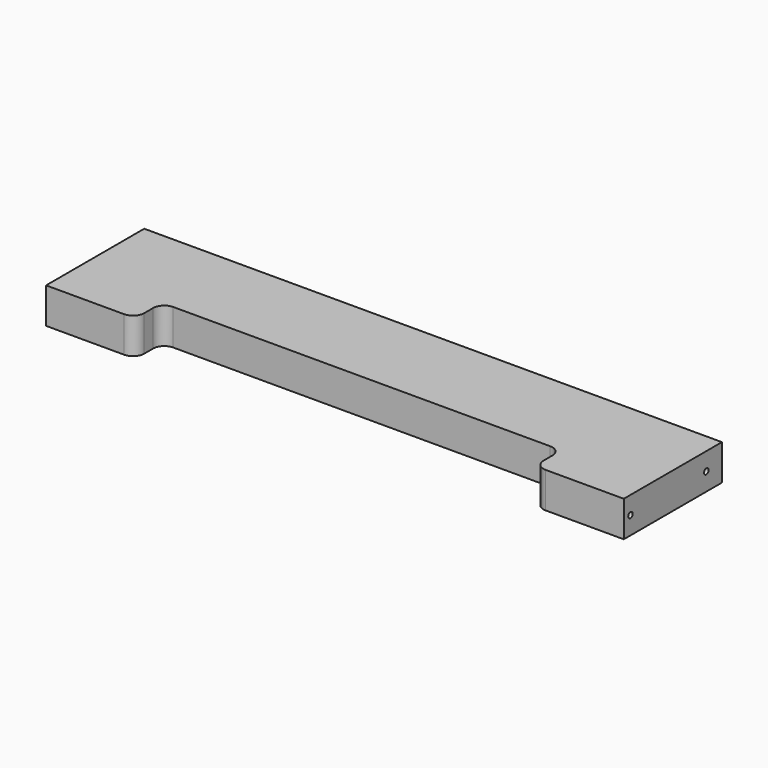
from build123d import *

# Parameters (mm, degrees)
F0_W           = 40
F0_H           = 15
F1_DEPTH       = 16
F2_R           = 5
F5_D           = 2.5
F5_DEPTH       = 7.4
F5_TIP         = 0.7510757738
F5_ON_F4_D     = 2.5
F5_ON_F4_DEPTH = 7.4
F5_ON_F4_TIP   = 0.7510757738


with BuildPart() as f1:
    # F0 (on Top) → F1 (new body)
    with BuildSketch(Plane.XY):
        Polygon((173.2976804376, -4.1842792928), (-85.7023195624, -4.1842792928), (-85.7023195624, -44.1842792928), (-45.7023195624, -44.1842792928), (133.2976804376, -44.1842792928), (173.2976804376, -44.1842792928), align=None)
        with Locations((-65.7023195624, -51.6842792928)):
            Rectangle(F0_W, F0_H)
        with Locations((153.2976804376, -51.6842792928)):
            Rectangle(F0_W, F0_H)
    extrude(amount=F1_DEPTH)

    # F2
    f2_edges = [f1.edges().sort_by_distance(p)[0] for p in [
        (-45.70232, -59.184279, 8),
        (133.29768, -59.184279, 8),
        (133.29768, -44.184279, 8),
        (-45.70232, -44.184279, 8),
    ]]
    fillet(f2_edges, radius=F2_R)

    # F5
    with Locations(Plane(origin=(-85.7023195624, 0, 0), x_dir=(0, -1, 0), z_dir=(-1, 0, 0))):
        with Locations((12.9342792928, 8), (55.4342792928, 8)):
            Hole(F5_D / 2, depth=F5_DEPTH)
            with Locations((0, 0, -(F5_DEPTH + F5_TIP / 2))):  # 118° drill point
                Cone(0, F5_D / 2, F5_TIP, mode=Mode.SUBTRACT)

    # F5 on F4
    with Locations(Plane.YZ.offset(173.2976804376)):
        with Locations((-12.9342792928, 8), (-55.4342792928, 8)):
            Hole(F5_ON_F4_D / 2, depth=F5_ON_F4_DEPTH)
            with Locations((0, 0, -(F5_ON_F4_DEPTH + F5_ON_F4_TIP / 2))):  # 118° drill point
                Cone(0, F5_ON_F4_D / 2, F5_ON_F4_TIP, mode=Mode.SUBTRACT)


solid = f1.part
